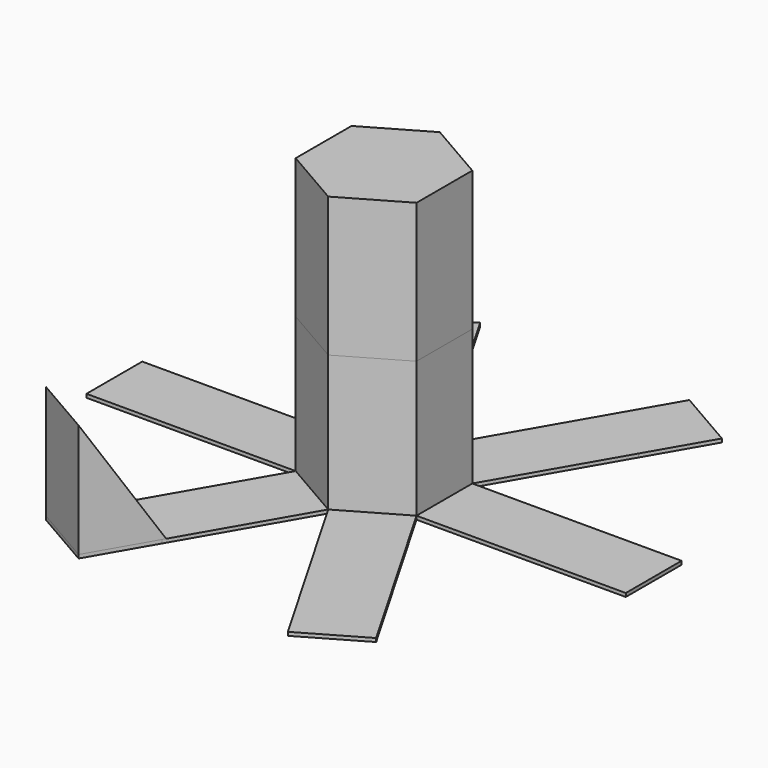
from build123d import *

# Parameters (mm, degrees)
F1_DEPTH = 2000
F0_W     = 2000
F0_H     = 1000
F0_W_2   = 1000
F2_DEPTH = 50.8
F3_DEPTH = 2000
F5_DEPTH = 1000


with BuildPart() as f1:
    # F0 (on Top) → F1 (new body)
    with BuildSketch(Plane.XY):
        Polygon((-866.025404, 500), (-866.025404, -500), (-433.012702, -750), (0, -1000), (866.025404, -500), (866.025404, 500), (0, 1000), align=None)
    extrude(amount=F1_DEPTH)

    # F0 (on Top) → F2 (join)
    with BuildSketch(Plane.XY):
        with Locations((-1866.025404, 0)):
            Rectangle(F0_W, F0_H)
        Polygon((-866.025404, 500), (-866.025404, -500), (-433.012702, -750), (0, -1000), (866.025404, -500), (866.025404, 500), (0, 1000), align=None)
        Polygon((-433.012702, -750), (-866.025404, -500), (-1866.025404, -2232.050808), (-1433.012702, -2482.050808), align=None)
        Polygon((-1866.025404, 2232.050808), (-866.025404, 500), (0, 1000), (-1000, 2732.050808), align=None)
        Polygon((0, -1000), (-433.012702, -750), (-1433.012702, -2482.050808), (-1000, -2732.050808), align=None)
        with Locations((-3366.025404, 0)):
            Rectangle(F0_W_2, F0_H)
        Polygon((-1433.012702, -2482.050808), (-1866.025404, -2232.050808), (-2366.025404, -3098.076211), (-1933.012702, -3348.076211), align=None)
        Polygon((1000, 2732.050808), (0, 1000), (866.025404, 500), (1866.025404, 2232.050808), align=None)
        Polygon((-2366.025404, 3098.076211), (-1866.025404, 2232.050808), (-1000, 2732.050808), (-1500, 3598.076211), align=None)
        Polygon((866.025404, -500), (0, -1000), (1000, -2732.050808), (1866.025404, -2232.050808), align=None)
        Polygon((-1000, -2732.050808), (-1433.012702, -2482.050808), (-1933.012702, -3348.076211), (-1500, -3598.076211), align=None)
        with Locations((1866.025404, 0)):
            Rectangle(F0_W, F0_H)
        Polygon((1500, 3598.076211), (1000, 2732.050808), (1866.025404, 2232.050808), (2366.025404, 3098.076211), align=None)
        Polygon((1866.025404, -2232.050808), (1000, -2732.050808), (1500, -3598.076211), (2366.025404, -3098.076211), align=None)
        with Locations((3366.025404, 0)):
            Rectangle(F0_W_2, F0_H)
    extrude(amount=F2_DEPTH)

    # F4 (on face) → F5 (join)
    with BuildSketch(Plane(origin=(433.012702, -250, 0), x_dir=(0.5, 0.866025, 0), z_dir=(0.866025, -0.5, 0))):
        Polygon((-3866.025404, 1679.859365), (-3866.025404, 50.8), (-2813.457804, 50.8), align=None)
    extrude(amount=-F5_DEPTH)


with BuildPart() as f3:
    # F1_face (on face) → F3 (new body)
    with BuildSketch(Plane.XY.offset(2000)):
        Polygon((-866.025404, 500), (-866.025404, -500), (0, -1000), (866.025404, -500), (866.025404, 500), (0, 1000), align=None)
    extrude(amount=F3_DEPTH)


solid = Compound([f1.part, f3.part])
